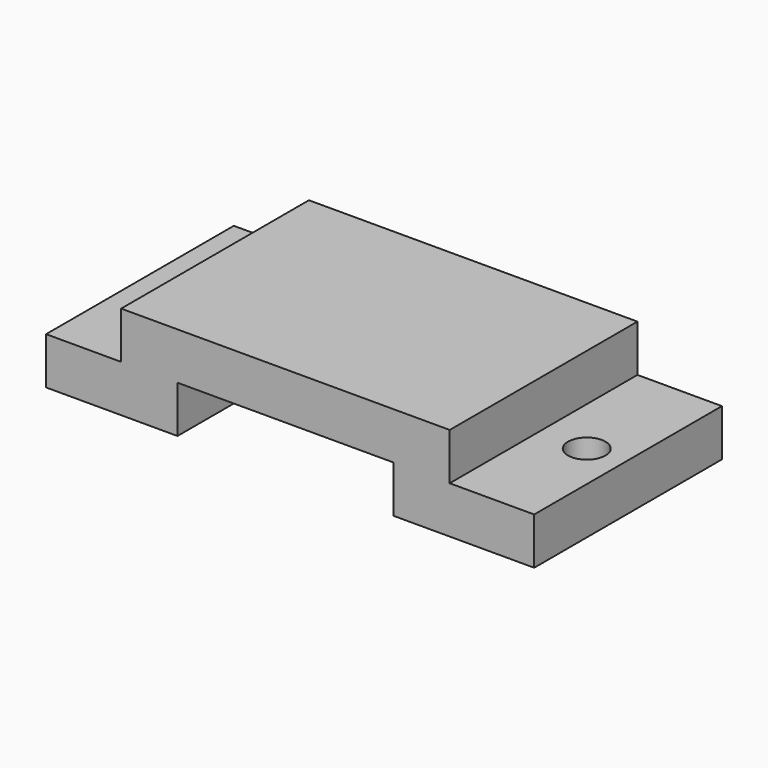
from build123d import *

# Parameters (mm, degrees)
CYLINDER188_R          = 2
CYLINDER188_DEPTH      = 13
CYLINDER187_R          = 2
CYLINDER187_DEPTH      = 13
BOX321_W               = 23
BOX321_H               = 5
BOX321_DEPTH           = 25
BOX098_W               = 35
BOX098_H               = 5
BOX098_DEPTH           = 25
BOX097_W               = 52
BOX097_H               = 5
BOX097_DEPTH           = 25
CUT144_PLACEMENT_ANGLE = 90


with BuildPart() as cylinder188:
    # Cylinder188 → Cylinder188 (new body)
    with BuildSketch(Plane(origin=(-12, -69, -5), x_dir=(1, 0, 0), z_dir=(0, 0, 1))):
        Circle(CYLINDER188_R)
    extrude(amount=CYLINDER188_DEPTH)


with BuildPart() as cylinder187:
    # Cylinder187 → Cylinder187 (new body)
    with BuildSketch(Plane(origin=(-55, -69, -5), x_dir=(1, 0, 0), z_dir=(0, 0, 1))):
        Circle(CYLINDER187_R)
    extrude(amount=CYLINDER187_DEPTH)


with BuildPart() as box321:
    # Box321 → Box321 (new body)
    with BuildSketch(Plane(origin=(-46, -93, 16), x_dir=(1, 0, 0), z_dir=(0, 0, 1))):
        with Locations((11.5, 2.5)):
            Rectangle(BOX321_W, BOX321_H)
    extrude(amount=BOX321_DEPTH)


with BuildPart() as box098:
    # Box098 → Box098 (new body)
    with BuildSketch(Plane(origin=(-52, -88, 16), x_dir=(1, 0, 0), z_dir=(0, 0, 1))):
        with Locations((17.5, 2.5)):
            Rectangle(BOX098_W, BOX098_H)
    extrude(amount=BOX098_DEPTH)


with BuildPart() as cut148:
    # Box097 → Box097 (new body)
    with BuildSketch(Plane(origin=(-60, -93, 16), x_dir=(1, 0, 0), z_dir=(0, 0, 1))):
        with Locations((26, 2.5)):
            Rectangle(BOX097_W, BOX097_H)
    extrude(amount=BOX097_DEPTH)

    # Fusion: union Box098
    add(box098.part)

    # Cut144: cut Box321
    add(box321.part, mode=Mode.SUBTRACT)


with BuildPart() as cut148_1:
    # Cut144 placement: moved
    add(cut148.part.moved(Location((0, -40, 96))).rotate(Axis((0, -40, 96), (1, 0, 0)), CUT144_PLACEMENT_ANGLE))

    # Cut147: cut Cylinder187
    add(cylinder187.part, mode=Mode.SUBTRACT)

    # Cut148: cut Cylinder188
    add(cylinder188.part, mode=Mode.SUBTRACT)


with BuildPart() as cut148_2:
    # Cut148 placement: moved
    add(cut148_1.part.moved(Location((0, 8, 42))))


solid = cut148_2.part
